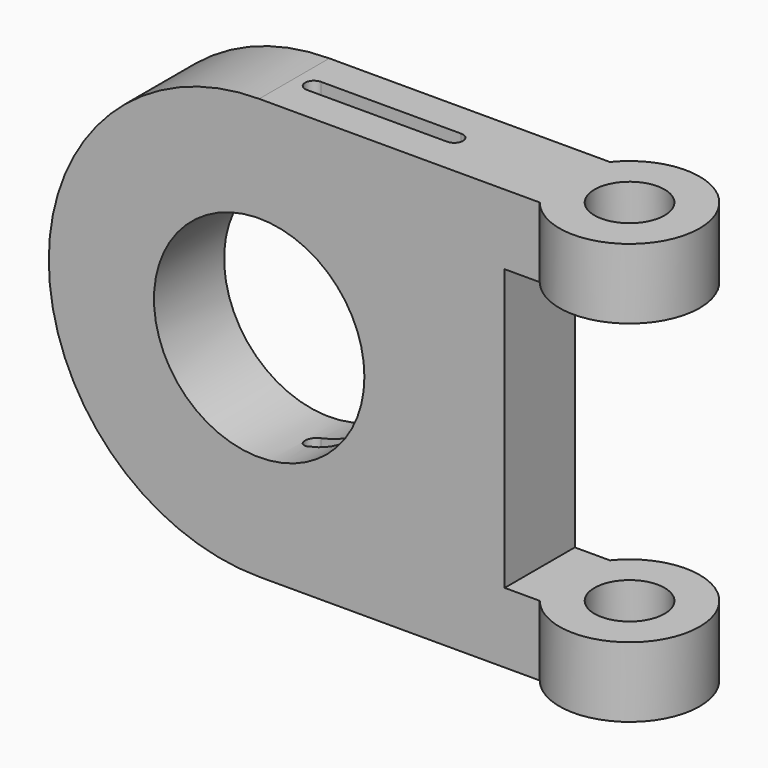
from build123d import *

# Parameters (mm, degrees)
F0_R     = 38.1
F1_DEPTH = 31.75
F2_R     = 12.7
F3_DEPTH = 152.4
F4_W     = 38.1
F4_H     = 101.6
F4_W_2   = 75.343641
F5_DEPTH = 63.5
F7_DEPTH = 152.401


with BuildPart() as f1:
    # F0 (on Front) → F1 (new body)
    with BuildSketch(Plane.XZ):
        with BuildLine():
            ThreePointArc((0, -76.2), (53.881537, -53.881537), (76.2, 0))
            ThreePointArc((76.2, 0), (53.881537, 53.881537), (0, 76.2))
            ThreePointArc((0, 76.2), (-76.2, 0), (0, -76.2))
        make_face()
        Circle(F0_R, mode=Mode.SUBTRACT)
        with BuildLine():
            ThreePointArc((0, 76.2), (53.881537, 53.881537), (76.2, 0))
            ThreePointArc((76.2, 0), (53.881537, -53.881537), (0, -76.2))
            Line((0, -76.2), (101.6, -76.2))
            Line((101.6, -76.2), (101.6, 76.2))
            Line((101.6, 76.2), (0, 76.2))
        make_face()
        with BuildLine():
            ThreePointArc((0, -76.2), (53.881537, -53.881537), (76.2, 0))
            ThreePointArc((76.2, 0), (53.881537, 53.881537), (0, 76.2))
            ThreePointArc((0, 76.2), (-76.2, 0), (0, -76.2))
        make_face()
        Circle(F0_R, mode=Mode.SUBTRACT)
    extrude(amount=F1_DEPTH)

    # F2 (on face) → F3 (join)
    with BuildSketch(Plane.XY.offset(76.2)):
        with BuildLine():
            Line((101.6, 0), (101.6, -31.75))
            ThreePointArc((101.6, -31.75), (146.827869, -15.875), (101.6, 0))
        make_face()
        with Locations((121.427869, -15.875)):
            Circle(F2_R, mode=Mode.SUBTRACT)
    extrude(amount=-F3_DEPTH)

    # F4 (on face) → F5 (cut, symmetric)
    with BuildSketch(Plane.XZ.offset(31.75)):
        with Locations((107.95, 0)):
            Rectangle(F4_W, F4_H)
        with Locations((164.67182, 0)):
            Rectangle(F4_W_2, F4_H)
    extrude(amount=F5_DEPTH, both=True, mode=Mode.SUBTRACT)

    # F6 (on face) → F7 (cut, through all)
    with BuildSketch(Plane.XY.offset(76.2)):
        with BuildLine():
            Line((7.127869, -19.05), (57.927869, -19.05))
            ThreePointArc((57.927869, -19.05), (61.102869, -15.875), (57.927869, -12.7))
            Line((57.927869, -12.7), (7.127869, -12.7))
            ThreePointArc((7.127869, -12.7), (3.952869, -15.875), (7.127869, -19.05))
        make_face()
    extrude(amount=-F7_DEPTH, mode=Mode.SUBTRACT)


solid = f1.part
